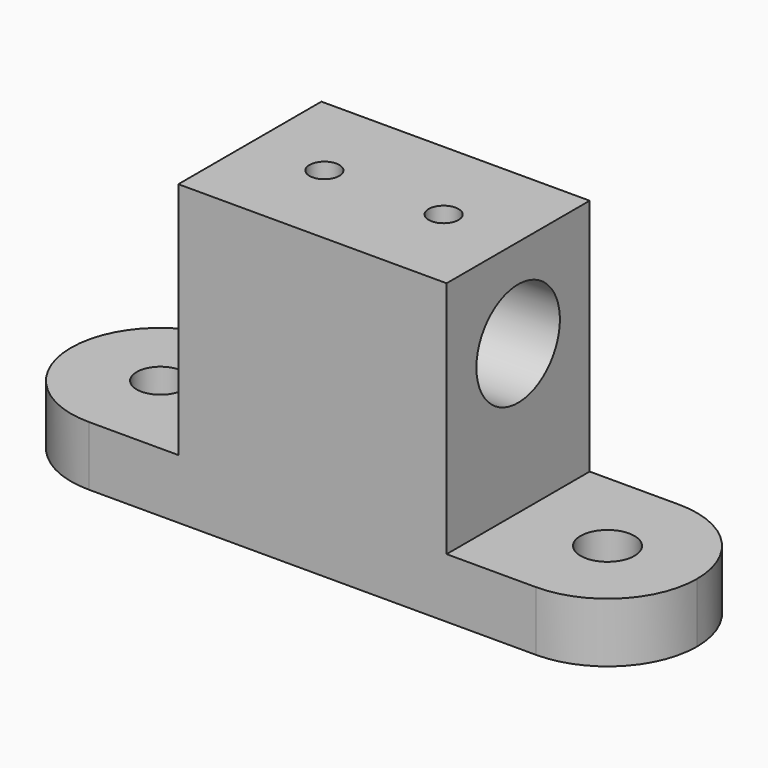
from build123d import *

# Parameters (mm, degrees)
F0_R     = 1.5930303601
F1_DEPTH = 4
F0_R_2   = 1.8103813353
F0_W     = 18
F0_H     = 12
F2_DEPTH = 20
F3_R     = 3.5
F4_DEPTH = 25
F5_R     = 1
F6_DEPTH = 5


with BuildPart() as f1:
    # F0 (on Top) → F1 (new body)
    with BuildSketch(Plane.XY):
        with BuildLine():
            ThreePointArc((0, 6), (1.7573593129, 1.7573593129), (6, 0))
            Line((6, 0), (12, 0))
            Line((12, 0), (12, 12))
            Line((12, 12), (6, 12))
            ThreePointArc((6, 12), (1.7573593129, 10.2426406871), (0, 6))
        make_face()
        with Locations((6, 6)):
            Circle(F0_R, mode=Mode.SUBTRACT)
    extrude(amount=F1_DEPTH)



with BuildPart() as f1b:
    # F0 (on Top) → F1, piece 2 (new body)
    with BuildSketch(Plane.XY):
        with BuildLine():
            Line((30, 12), (30, 0))
            Line((30, 0), (36, 0))
            ThreePointArc((36, 0), (40.2426406871, 1.7573593129), (42, 6))
            ThreePointArc((42, 6), (40.2426406871, 10.2426406871), (36, 12))
            Line((36, 12), (30, 12))
        make_face()
        with Locations((36, 6)):
            Circle(F0_R_2, mode=Mode.SUBTRACT)
    extrude(amount=F1_DEPTH)


with BuildPart() as f1_1:
    add(f1.part)

    add(f1b.part)  # F2 merges F1b
    # F0 (on Top) → F2 (join)
    with BuildSketch(Plane.XY):
        with Locations((21, 6)):
            Rectangle(F0_W, F0_H)
    extrude(amount=F2_DEPTH)

    # F3 (on face) → F4 (cut)
    with BuildSketch(Plane(origin=(12, 0, 0), x_dir=(0, -1, 0), z_dir=(-1, 0, 0))):
        with Locations((-6, 14)):
            Circle(F3_R)
    extrude(amount=-F4_DEPTH, mode=Mode.SUBTRACT)

    # F5 (on face) → F6 (cut)
    with BuildSketch(Plane.XY.offset(20)):
        with Locations((17, 6)):
            Circle(F5_R)
        with Locations((25, 6)):
            Circle(F5_R)
    extrude(amount=-F6_DEPTH, mode=Mode.SUBTRACT)


solid = f1_1.part
